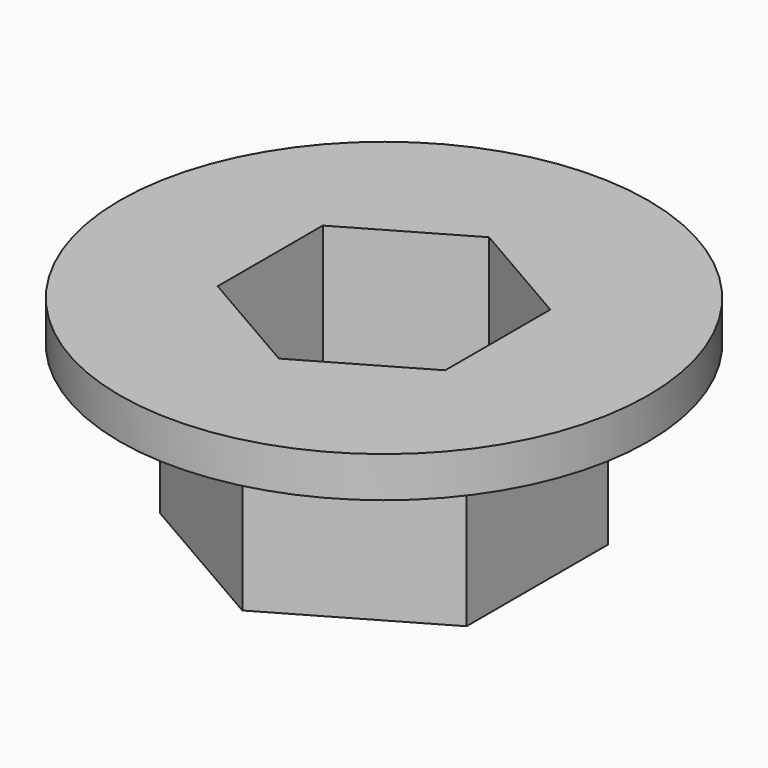
from build123d import *

# Parameters (mm, degrees)
F1_DEPTH = 4
F3_DEPTH = 2.42
F4_R     = 1.55
F5_DEPTH = 25
F6_R     = 6.5
F7_DEPTH = 1
F9_DEPTH = 1.8


with BuildPart() as f1:
    # F0 (on Top) → F1 (new body)
    with BuildSketch(Plane.XY):
        Polygon((3.775, -2.179497), (3.775, 2.179497), (0, 4.358995), (-3.775, 2.179497), (-3.775, -2.179497), (0, -4.358995), align=None)
    extrude(amount=F1_DEPTH)

    # F2 (on face) → F3 (cut)
    with BuildSketch(Plane.XY.offset(4)):
        Polygon((2.8, -1.616581), (2.8, 1.616581), (0, 3.233162), (-2.8, 1.616581), (-2.8, -1.616581), (0, -3.233162), align=None)
    extrude(amount=-F3_DEPTH, mode=Mode.SUBTRACT)

    # F4 (on face) → F5 (cut)
    with BuildSketch(Plane.XY.offset(1.58)):
        Circle(F4_R)
    extrude(amount=-F5_DEPTH, mode=Mode.SUBTRACT)

    # F6 (on face) → F7 (join)
    with BuildSketch(Plane.XY.offset(4)):
        Circle(F6_R)
    extrude(amount=F7_DEPTH)

    # F8 (on face) → F9 (cut)
    with BuildSketch(Plane.XY.offset(5)):
        Polygon((2.8, -1.616581), (2.8, 1.616581), (0, 3.233162), (-2.8, 1.616581), (-2.8, -1.616581), (0, -3.233162), align=None)
    extrude(amount=-F9_DEPTH, mode=Mode.SUBTRACT)


solid = f1.part
